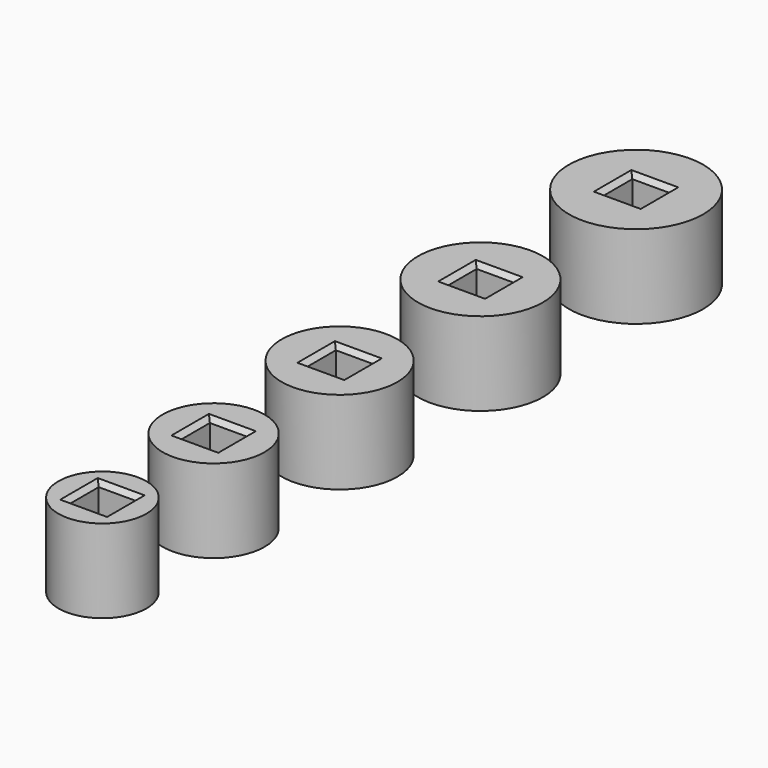
from build123d import *

# Parameters (mm, degrees)
F0_R     = 4.75
F0_W     = 4.06
F0_H     = 4.06
F0_R_2   = 5.5
F0_R_3   = 6.25
F0_R_4   = 6.75
F0_R_5   = 7.25
F1_DEPTH = 9
F2_SIZE  = 0.5
F3_SIZE  = 0.5


with BuildPart() as f1:
    # F0 (on Top) → F1 (new body)
    with BuildSketch(Plane.XY):
        with Locations((0, -32)):
            Circle(F0_R)
        with Locations((0, -32)):
            Rectangle(F0_W, F0_H, mode=Mode.SUBTRACT)
        with Locations((0, -17)):
            Circle(F0_R_2)
        with Locations((0, -17)):
            Rectangle(F0_W, F0_H, mode=Mode.SUBTRACT)
        Circle(F0_R_3)
        Rectangle(F0_W, F0_H, mode=Mode.SUBTRACT)
        with Locations((0, 19)):
            Circle(F0_R_4)
        with Locations((0, 19)):
            Rectangle(F0_W, F0_H, mode=Mode.SUBTRACT)
        with Locations((0, 40)):
            Circle(F0_R_5)
        with Locations((0, 40)):
            Rectangle(F0_W, F0_H, mode=Mode.SUBTRACT)
    extrude(amount=F1_DEPTH)

    # F2
    f2_edges = [f1.edges().sort_by_distance(p)[0] for p in [
        (0, 42.03, 9),
        (-2.03, 40, 9),
        (0, 37.97, 9),
        (2.03, 40, 9),
        (-2.03, 19, 9),
        (0, 21.03, 9),
        (2.03, 19, 9),
        (0, 16.97, 9),
        (-2.03, 0, 9),
        (0, 2.03, 9),
        (0, -2.03, 9),
        (2.03, 0, 9),
        (-2.03, -17, 9),
        (0, -14.97, 9),
        (2.03, -17, 9),
        (0, -19.03, 9),
        (-2.03, -32, 9),
        (0, -29.97, 9),
        (2.03, -32, 9),
        (0, -34.03, 9),
    ]]
    chamfer(f2_edges, length=F2_SIZE)

    # F3
    f3_edges = [f1.edges().sort_by_distance(p)[0] for p in [
        (-2.03, 40, 0),
        (0, 37.97, 0),
        (0, 42.03, 0),
        (2.03, 40, 0),
        (-2.03, 19, 0),
        (0, 16.97, 0),
        (2.03, 19, 0),
        (0, 21.03, 0),
        (-2.03, 0, 0),
        (0, 2.03, 0),
        (0, -2.03, 0),
        (2.03, 0, 0),
        (-2.03, -17, 0),
        (0, -19.03, 0),
        (0, -14.97, 0),
        (2.03, -17, 0),
        (-2.03, -32, 0),
        (0, -34.03, 0),
        (0, -29.97, 0),
        (2.03, -32, 0),
    ]]
    chamfer(f3_edges, length=F3_SIZE)


solid = f1.part
